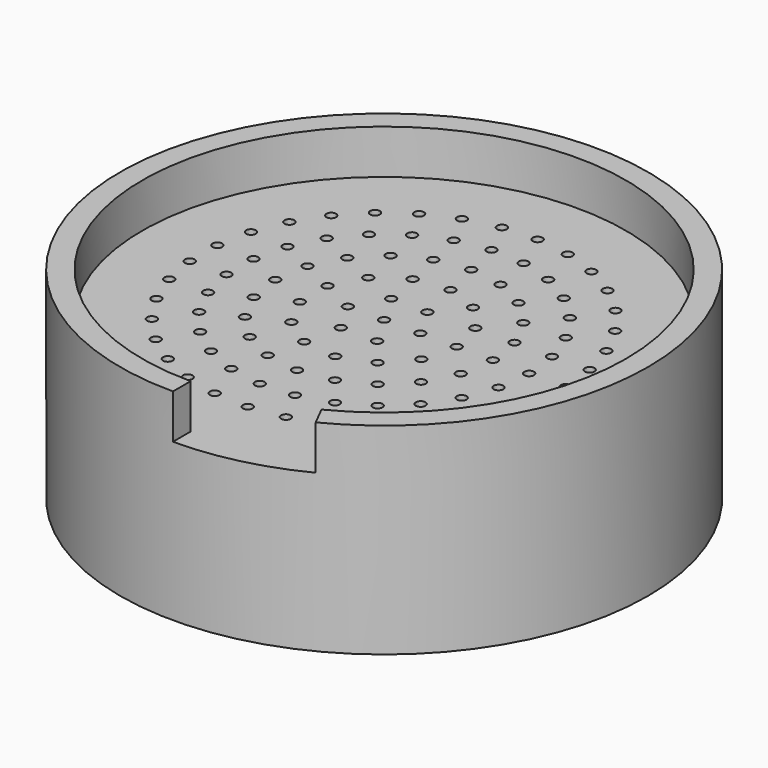
from build123d import *

# Parameters (mm, degrees)
F0_R     = 41.5925
F0_R_2   = 8.89
F1_DEPTH = 6.35
F2_R     = 41.5925
F2_R_2   = 33.9725
F3_DEPTH = 3.175
F4_R     = 41.5925
F4_R_2   = 33.9725
F4_R_3   = 0.762
F5_DEPTH = 2.54
F7_DEPTH = 6.985
F8_R     = 41.5925
F8_W     = 50.8
F8_H     = 50.8
F8_R_2   = 8.89
F8_R_3   = 8.382
F9_DEPTH = 12.7


with BuildPart() as f1:
    # F0 (on Top) → F1 (new body)
    with BuildSketch(Plane.XY):
        Circle(F0_R)
        Circle(F0_R_2, mode=Mode.SUBTRACT)
    extrude(amount=F1_DEPTH)

    # F2 (on face) → F3 (join)
    with BuildSketch(Plane.XY.offset(6.35)):
        Circle(F2_R)
        Circle(F2_R_2, mode=Mode.SUBTRACT)
    extrude(amount=F3_DEPTH)

    # F4 (on face) → F5 (join)
    with BuildSketch(Plane.XY.offset(9.525)):
        Circle(F4_R)
        Circle(F4_R_2, mode=Mode.SUBTRACT)
        Circle(F4_R_2)
        with Locations((-18.7126454725, -21.5955440872)):
            Circle(F4_R_3, mode=Mode.SUBTRACT)
        with Locations((-14.2875, -24.7466759131)):
            Circle(F4_R_3, mode=Mode.SUBTRACT)
        with Locations((-9.3459670518, -27.0033983948)):
            Circle(F4_R_3, mode=Mode.SUBTRACT)
        with Locations((-4.0666465037, -28.2841477017)):
            Circle(F4_R_3, mode=Mode.SUBTRACT)
        with Locations((-6.5563218998, -21.8996402515)):
            Circle(F4_R_3, mode=Mode.SUBTRACT)
        with Locations((-1.3291907889, -22.8213244981)):
            Circle(F4_R_3, mode=Mode.SUBTRACT)
        with Locations((-22.4614671823, -17.6638930313)):
            Circle(F4_R_3, mode=Mode.SUBTRACT)
        with Locations((-25.3984729453, -13.0938228584)):
            Circle(F4_R_3, mode=Mode.SUBTRACT)
        with Locations((-27.417511721, -8.0505078117)):
            Circle(F4_R_3, mode=Mode.SUBTRACT)
        with Locations((-21.4813733112, -7.8185804764)):
            Circle(F4_R_3, mode=Mode.SUBTRACT)
        with Locations((-28.4456101875, -2.7162264374)):
            Circle(F4_R_3, mode=Mode.SUBTRACT)
        with Locations((-22.705428858, -2.6538840169)):
            Circle(F4_R_3, mode=Mode.SUBTRACT)
        with Locations((-15.6874838417, -16.6277614464)):
            Circle(F4_R_3, mode=Mode.SUBTRACT)
        with Locations((-11.43, -19.7973407305)):
            Circle(F4_R_3, mode=Mode.SUBTRACT)
        with Locations((-19.0992513689, -12.5617752387)):
            Circle(F4_R_3, mode=Mode.SUBTRACT)
        with Locations((-5.2980963686, -16.3058639719)):
            Circle(F4_R_3, mode=Mode.SUBTRACT)
        with Locations((-10.0775781506, -13.8705963686)):
            Circle(F4_R_3, mode=Mode.SUBTRACT)
        with Locations((-4.0531338589, -10.6872356539)):
            Circle(F4_R_3, mode=Mode.SUBTRACT)
        with Locations((-16.3058639719, -5.2980963686)):
            Circle(F4_R_3, mode=Mode.SUBTRACT)
        with Locations((-13.8705963686, -10.0775781506)):
            Circle(F4_R_3, mode=Mode.SUBTRACT)
        with Locations((-11.0978649732, -2.7353780428)):
            Circle(F4_R_3, mode=Mode.SUBTRACT)
        with Locations((-8.5554778516, -7.5794919837)):
            Circle(F4_R_3, mode=Mode.SUBTRACT)
        with Locations((-2.8575, -4.9493351826)):
            Circle(F4_R_3, mode=Mode.SUBTRACT)
        with Locations((1.3596532447, -28.5426342172)):
            Circle(F4_R_3, mode=Mode.SUBTRACT)
        with Locations((6.7368115822, -27.7695155648)):
            Circle(F4_R_3, mode=Mode.SUBTRACT)
        with Locations((3.9695973415, -22.5127052339)):
            Circle(F4_R_3, mode=Mode.SUBTRACT)
        with Locations((9.0543834517, -20.9904202033)):
            Circle(F4_R_3, mode=Mode.SUBTRACT)
        with Locations((11.8704839965, -25.9927342673)):
            Circle(F4_R_3, mode=Mode.SUBTRACT)
        with Locations((16.575126191, -23.2765078298)):
            Circle(F4_R_3, mode=Mode.SUBTRACT)
        with Locations((0, -17.145)):
            Circle(F4_R_3, mode=Mode.SUBTRACT)
        with Locations((5.2980963686, -16.3058639719)):
            Circle(F4_R_3, mode=Mode.SUBTRACT)
        with Locations((1.3777342553, -11.3466624309)):
            Circle(F4_R_3, mode=Mode.SUBTRACT)
        with Locations((10.0775781506, -13.8705963686)):
            Circle(F4_R_3, mode=Mode.SUBTRACT)
        with Locations((13.6510454063, -18.3365361864)):
            Circle(F4_R_3, mode=Mode.SUBTRACT)
        with Locations((20.6807001389, -19.7190077531)):
            Circle(F4_R_3, mode=Mode.SUBTRACT)
        with Locations((17.5117759697, -14.6941247574)):
            Circle(F4_R_3, mode=Mode.SUBTRACT)
        with Locations((6.4929800551, -9.4067055872)):
            Circle(F4_R_3, mode=Mode.SUBTRACT)
        with Locations((10.1207623732, -5.3117858565)):
            Circle(F4_R_3, mode=Mode.SUBTRACT)
        with Locations((2.8575, -4.9493351826)):
            Circle(F4_R_3, mode=Mode.SUBTRACT)
        with Locations((13.8705963686, -10.0775781506)):
            Circle(F4_R_3, mode=Mode.SUBTRACT)
        with Locations((20.4284421578, -10.2595492594)):
            Circle(F4_R_3, mode=Mode.SUBTRACT)
        with Locations((16.3058639719, -5.2980963686)):
            Circle(F4_R_3, mode=Mode.SUBTRACT)
        with Locations((24.0388197007, -15.4488113588)):
            Circle(F4_R_3, mode=Mode.SUBTRACT)
        with Locations((26.5281136859, -10.6202546705)):
            Circle(F4_R_3, mode=Mode.SUBTRACT)
        with Locations((22.2438057415, -5.2718788052)):
            Circle(F4_R_3, mode=Mode.SUBTRACT)
        with Locations((28.0586125243, -5.4078543076)):
            Circle(F4_R_3, mode=Mode.SUBTRACT)
        with Locations((-28.4456101875, 2.7162264374)):
            Circle(F4_R_3, mode=Mode.SUBTRACT)
        with Locations((-22.705428858, 2.6538840169)):
            Circle(F4_R_3, mode=Mode.SUBTRACT)
        with Locations((-27.417511721, 8.0505078117)):
            Circle(F4_R_3, mode=Mode.SUBTRACT)
        with Locations((-21.4813733112, 7.8185804764)):
            Circle(F4_R_3, mode=Mode.SUBTRACT)
        with Locations((-25.3984729453, 13.0938228584)):
            Circle(F4_R_3, mode=Mode.SUBTRACT)
        with Locations((-22.4614671823, 17.6638930313)):
            Circle(F4_R_3, mode=Mode.SUBTRACT)
        with Locations((-17.145, 0)):
            Circle(F4_R_3, mode=Mode.SUBTRACT)
        with Locations((-11.0978649732, 2.7353780428)):
            Circle(F4_R_3, mode=Mode.SUBTRACT)
        with Locations((-16.3058639719, 5.2980963686)):
            Circle(F4_R_3, mode=Mode.SUBTRACT)
        with Locations((-13.8705963686, 10.0775781506)):
            Circle(F4_R_3, mode=Mode.SUBTRACT)
        with Locations((-5.715, 0)):
            Circle(F4_R_3, mode=Mode.SUBTRACT)
        with Locations((-2.8575, 4.9493351826)):
            Circle(F4_R_3, mode=Mode.SUBTRACT)
        with Locations((-8.5554778516, 7.5794919837)):
            Circle(F4_R_3, mode=Mode.SUBTRACT)
        with Locations((-19.0992513689, 12.5617752387)):
            Circle(F4_R_3, mode=Mode.SUBTRACT)
        with Locations((-15.6874838417, 16.6277614464)):
            Circle(F4_R_3, mode=Mode.SUBTRACT)
        with Locations((-11.43, 19.7973407305)):
            Circle(F4_R_3, mode=Mode.SUBTRACT)
        with Locations((-10.0775781506, 13.8705963686)):
            Circle(F4_R_3, mode=Mode.SUBTRACT)
        with Locations((-4.0531338589, 10.6872356539)):
            Circle(F4_R_3, mode=Mode.SUBTRACT)
        with Locations((-5.2980963686, 16.3058639719)):
            Circle(F4_R_3, mode=Mode.SUBTRACT)
        with Locations((-18.7126454725, 21.5955440872)):
            Circle(F4_R_3, mode=Mode.SUBTRACT)
        with Locations((-14.2875, 24.7466759131)):
            Circle(F4_R_3, mode=Mode.SUBTRACT)
        with Locations((-6.5563218998, 21.8996402515)):
            Circle(F4_R_3, mode=Mode.SUBTRACT)
        with Locations((-1.3291907889, 22.8213244981)):
            Circle(F4_R_3, mode=Mode.SUBTRACT)
        with Locations((-9.3459670518, 27.0033983948)):
            Circle(F4_R_3, mode=Mode.SUBTRACT)
        with Locations((-4.0666465037, 28.2841477017)):
            Circle(F4_R_3, mode=Mode.SUBTRACT)
        Circle(F4_R_3, mode=Mode.SUBTRACT)
        with Locations((2.8575, 4.9493351826)):
            Circle(F4_R_3, mode=Mode.SUBTRACT)
        with Locations((5.715, 0)):
            Circle(F4_R_3, mode=Mode.SUBTRACT)
        with Locations((10.1207623732, 5.3117858565)):
            Circle(F4_R_3, mode=Mode.SUBTRACT)
        with Locations((6.4929800551, 9.4067055872)):
            Circle(F4_R_3, mode=Mode.SUBTRACT)
        with Locations((11.43, 0)):
            Circle(F4_R_3, mode=Mode.SUBTRACT)
        with Locations((17.145, 0)):
            Circle(F4_R_3, mode=Mode.SUBTRACT)
        with Locations((13.8705963686, 10.0775781506)):
            Circle(F4_R_3, mode=Mode.SUBTRACT)
        with Locations((16.3058639719, 5.2980963686)):
            Circle(F4_R_3, mode=Mode.SUBTRACT)
        with Locations((20.4284421578, 10.2595492594)):
            Circle(F4_R_3, mode=Mode.SUBTRACT)
        with Locations((1.3777342553, 11.3466624309)):
            Circle(F4_R_3, mode=Mode.SUBTRACT)
        with Locations((10.0775781506, 13.8705963686)):
            Circle(F4_R_3, mode=Mode.SUBTRACT)
        with Locations((0, 17.145)):
            Circle(F4_R_3, mode=Mode.SUBTRACT)
        with Locations((5.2980963686, 16.3058639719)):
            Circle(F4_R_3, mode=Mode.SUBTRACT)
        with Locations((17.5117759697, 14.6941247574)):
            Circle(F4_R_3, mode=Mode.SUBTRACT)
        with Locations((13.6510454063, 18.3365361864)):
            Circle(F4_R_3, mode=Mode.SUBTRACT)
        with Locations((20.6807001389, 19.7190077531)):
            Circle(F4_R_3, mode=Mode.SUBTRACT)
        with Locations((22.86, 0)):
            Circle(F4_R_3, mode=Mode.SUBTRACT)
        with Locations((28.575, 0)):
            Circle(F4_R_3, mode=Mode.SUBTRACT)
        with Locations((22.2438057415, 5.2718788052)):
            Circle(F4_R_3, mode=Mode.SUBTRACT)
        with Locations((28.0586125243, 5.4078543076)):
            Circle(F4_R_3, mode=Mode.SUBTRACT)
        with Locations((24.0388197007, 15.4488113588)):
            Circle(F4_R_3, mode=Mode.SUBTRACT)
        with Locations((26.5281136859, 10.6202546705)):
            Circle(F4_R_3, mode=Mode.SUBTRACT)
        with Locations((3.9695973415, 22.5127052339)):
            Circle(F4_R_3, mode=Mode.SUBTRACT)
        with Locations((9.0543834517, 20.9904202033)):
            Circle(F4_R_3, mode=Mode.SUBTRACT)
        with Locations((1.3596532447, 28.5426342172)):
            Circle(F4_R_3, mode=Mode.SUBTRACT)
        with Locations((6.7368115822, 27.7695155648)):
            Circle(F4_R_3, mode=Mode.SUBTRACT)
        with Locations((11.8704839965, 25.9927342673)):
            Circle(F4_R_3, mode=Mode.SUBTRACT)
        with Locations((16.575126191, 23.2765078298)):
            Circle(F4_R_3, mode=Mode.SUBTRACT)
    extrude(amount=F5_DEPTH)

    # F6 (on face) → F7 (join)
    with BuildSketch(Plane.XY.offset(12.065)):
        with BuildLine():
            ThreePointArc((18.8740600105, -37.0635388889), (35.4609320044, -21.7361072327), (41.5925, 0))
            ThreePointArc((41.5925, 0), (-29.4103387965, 29.4103387965), (0, -41.5925))
            Line((0, -41.5925), (0, -38.1))
            ThreePointArc((0, -38.1), (-26.9407683632, 26.9407683632), (38.1, 0))
            ThreePointArc((38.1, 0), (32.4832964926, -19.9109379231), (17.2892152768, -33.9513333333))
            Line((17.2892152768, -33.9513333333), (18.8740600105, -37.0635388889))
        make_face()
    extrude(amount=F7_DEPTH)

    # F8 (on face) → F9 (join)
    with BuildSketch(Plane(origin=(0, 0, 0), x_dir=(1, 0, 0), z_dir=(0, 0, -1))):
        Circle(F8_R)
        Rectangle(F8_W, F8_H, mode=Mode.SUBTRACT)
        Rectangle(F8_W, F8_H)
        Circle(F8_R_2, mode=Mode.SUBTRACT)
        Circle(F8_R_2)
        Circle(F8_R_3, mode=Mode.SUBTRACT)
    extrude(amount=F9_DEPTH)


solid = f1.part
